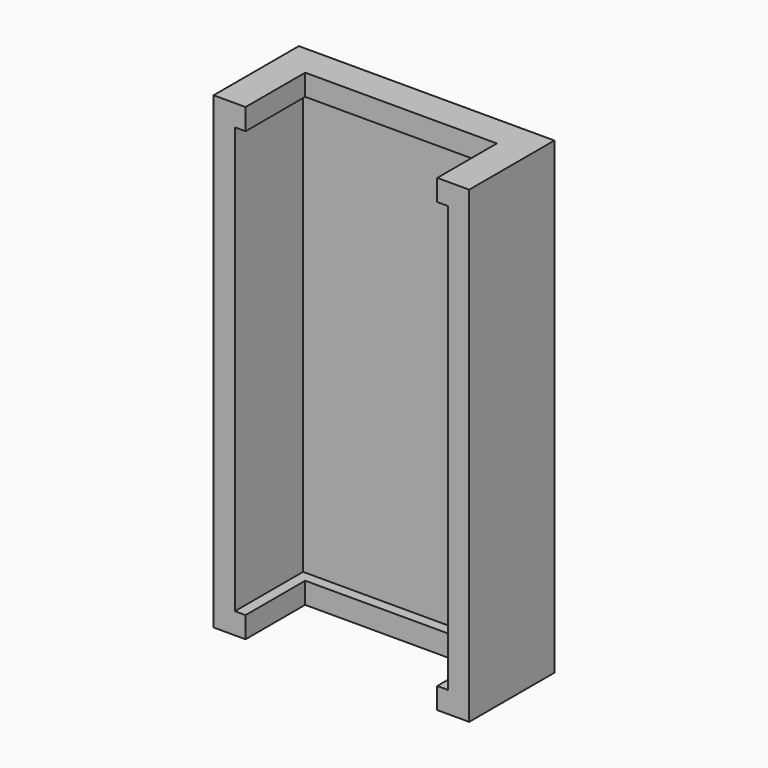
from build123d import *

# Parameters (mm, degrees)
F0_W     = 19.05
F0_H     = 34.925
F1_DEPTH = 7.9375
F2_W     = 15.875
F2_H     = 31.75
F3_DEPTH = 6.35
F4_W     = 14.2875
F4_H     = 5.55625
F5_DEPTH = 34.926


with BuildPart() as f1:
    # F0 (on Front) → F1 (new body)
    with BuildSketch(Plane.XZ):
        with Locations((-35.038067, 28.636673)):
            Rectangle(F0_W, F0_H)
    extrude(amount=F1_DEPTH)

    # F2 (on face) → F3 (cut)
    with BuildSketch(Plane.XZ.offset(7.9375)):
        with Locations((-35.038067, 28.636673)):
            Rectangle(F2_W, F2_H)
    extrude(amount=-F3_DEPTH, mode=Mode.SUBTRACT)

    # F4 (on face) → F5 (cut, through all)
    with BuildSketch(Plane.XY.offset(46.099173)):
        with Locations((-35.038067, -5.159375)):
            Rectangle(F4_W, F4_H)
    extrude(amount=-F5_DEPTH, mode=Mode.SUBTRACT)


solid = f1.part
